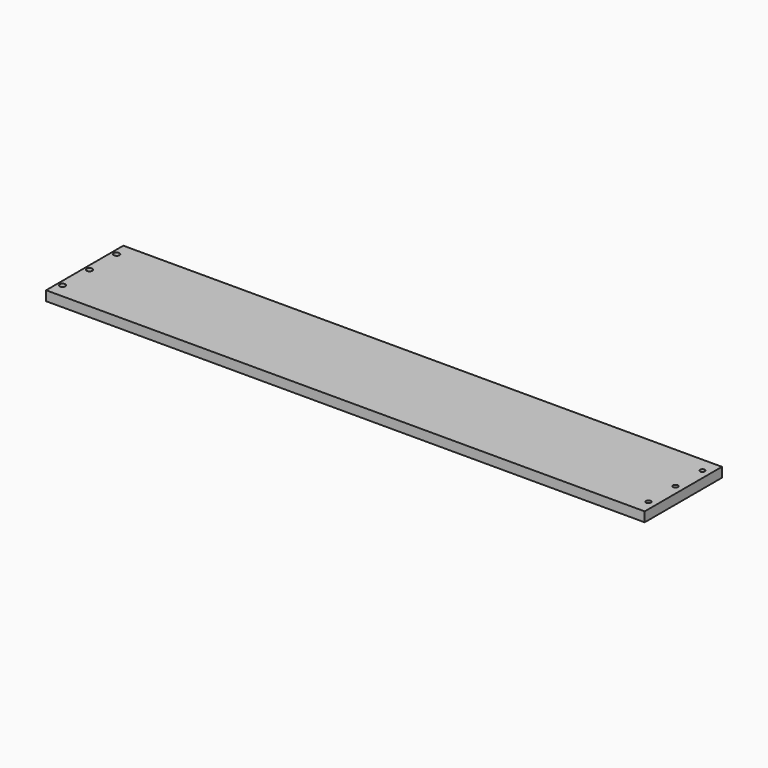
from build123d import *

# Parameters (mm, degrees)
F0_W     = 620
F0_H     = 100
F0_R     = 3
F0_R_2   = 2.5
F1_DEPTH = 10


with BuildPart() as f1:
    # F0 (on Top) → F1 (new body)
    with BuildSketch(Plane.XY):
        Rectangle(F0_W, F0_H)
        with Locations((-305, -35)):
            Circle(F0_R, mode=Mode.SUBTRACT)
        with Locations((301.857322, -35)):
            Circle(F0_R_2, mode=Mode.SUBTRACT)
        with Locations((-305, 0)):
            Circle(F0_R, mode=Mode.SUBTRACT)
        with Locations((-305, 35)):
            Circle(F0_R, mode=Mode.SUBTRACT)
        with Locations((301.857322, 0)):
            Circle(F0_R_2, mode=Mode.SUBTRACT)
        with Locations((301.857322, 35)):
            Circle(F0_R_2, mode=Mode.SUBTRACT)
    extrude(amount=F1_DEPTH)


solid = f1.part
